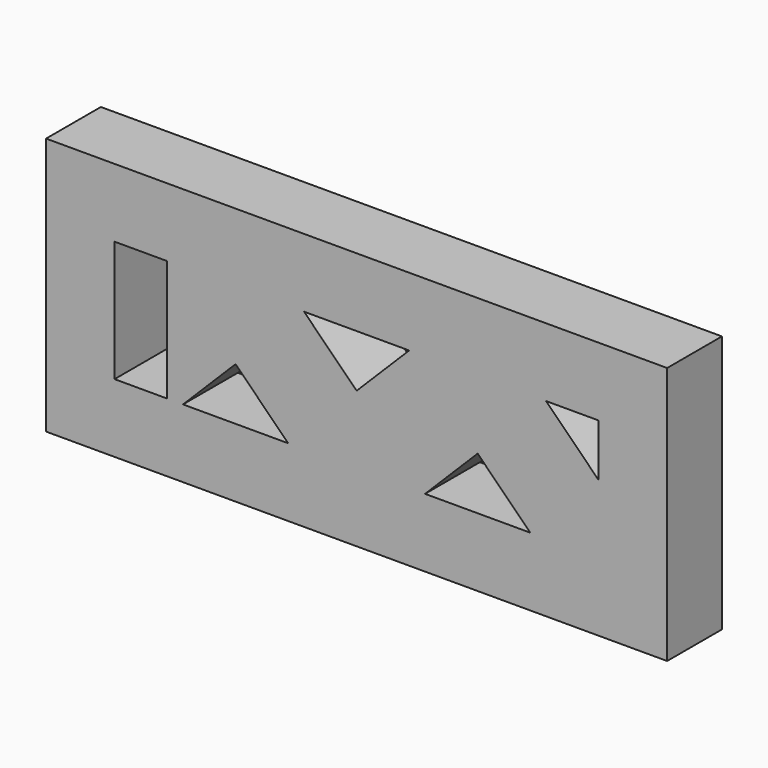
from build123d import *

# Parameters (mm, degrees)
F0_W     = 230.405122
F0_H     = 95.70128
F1_DEPTH = 25.4


with BuildPart() as f1:
    # F0 (on Front) → F1 (new body)
    with BuildSketch(Plane.XZ):
        Rectangle(F0_W, F0_H)
        Polygon((-70.301281, -22.45064), (-89.802561, -22.45064), (-89.802561, 2.94936), (-89.802561, 22.45064), (-70.301281, 22.45064), (-44.901281, 22.45064), (-19.501281, 22.45064), (19.501281, 22.45064), (44.901281, 22.45064), (70.301281, 22.45064), (89.802561, 22.45064), (89.802561, 2.94936), (89.802561, -22.45064), (64.402561, -22.45064), (25.4, -22.45064), (0, -22.45064), (-25.4, -22.45064), (-64.402561, -22.45064), align=None, mode=Mode.SUBTRACT)
        Polygon((-70.301281, 22.45064), (-70.301281, -22.45064), (-64.402561, -22.45064), (-44.901281, -2.94936), (-44.901281, 22.45064), align=None)
        Polygon((-44.901281, 22.45064), (-44.901281, -2.94936), (-25.4, -22.45064), (0, -22.45064), (0, 2.94936), (-19.501281, 22.45064), align=None)
        Polygon((0, 2.94936), (0, -22.45064), (25.4, -22.45064), (44.901281, -2.94936), (44.901281, 22.45064), (19.501281, 22.45064), align=None)
        Polygon((44.901281, 22.45064), (44.901281, -2.94936), (64.402561, -22.45064), (89.802561, -22.45064), (89.802561, 2.94936), (70.301281, 22.45064), align=None)
    extrude(amount=F1_DEPTH)


solid = f1.part
